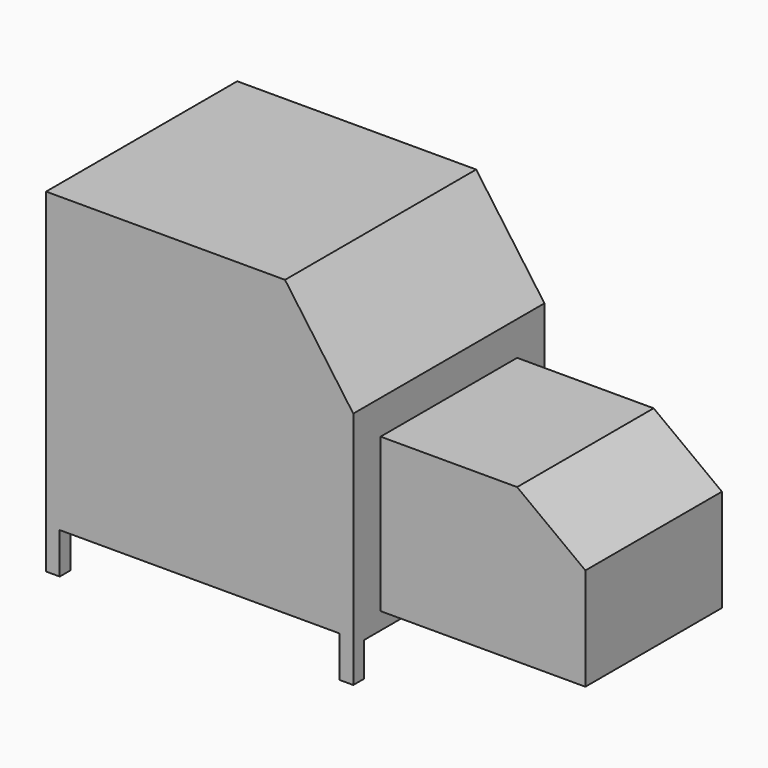
from build123d import *

# Parameters (mm, degrees)
F1_DEPTH = 700
F2_W     = 500
F2_H     = 450
F3_DEPTH = 600
F5_DEPTH = 600.001
F6_W     = 620
F6_H     = 100
F7_DEPTH = 900.001


with BuildPart() as f1:
    # F0 (on Front) → F1 (new body)
    with BuildSketch(Plane.XZ):
        Polygon((0, 980), (0, 0), (40, 0), (40, 120), (860, 120), (860, 0), (900, 0), (900, 700), (700, 980), align=None)
    extrude(amount=F1_DEPTH)

    # F2 (on face) → F3 (join)
    with BuildSketch(Plane.YZ.offset(900)):
        with Locations((-350, 375)):
            Rectangle(F2_W, F2_H)
    extrude(amount=F3_DEPTH)

    # F4 (on face) → F5 (cut, through all)
    with BuildSketch(Plane.XZ.offset(600)):
        Polygon((1500, 450), (1500, 600), (1300, 600), align=None)
    extrude(amount=-F5_DEPTH, mode=Mode.SUBTRACT)

    # F6 (on face) → F7 (cut, through all)
    with BuildSketch(Plane.YZ.offset(900)):
        with Locations((-350, 50)):
            Rectangle(F6_W, F6_H)
    extrude(amount=-F7_DEPTH, mode=Mode.SUBTRACT)


solid = f1.part
